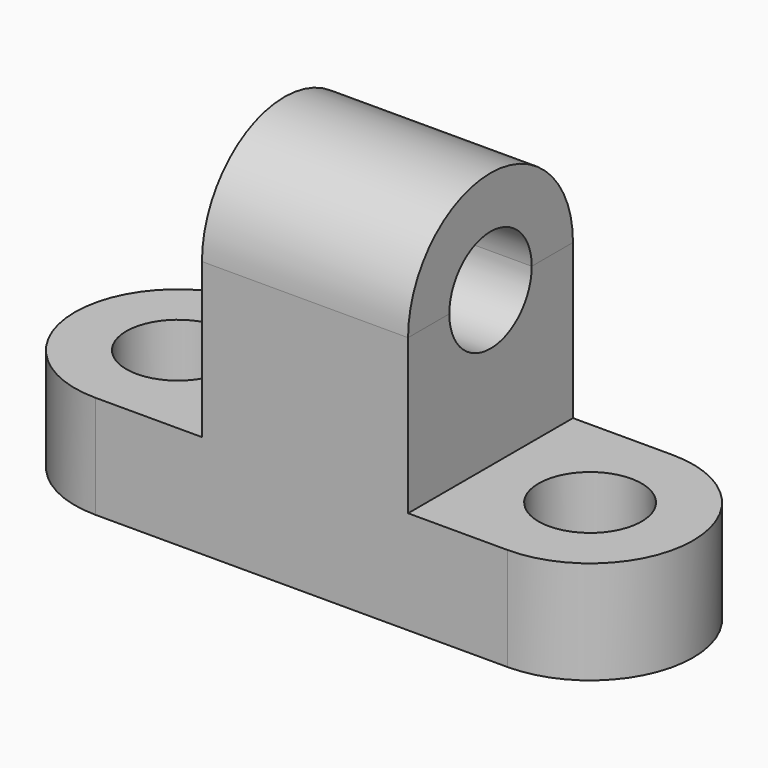
from build123d import *

# Parameters (mm, degrees)
F1_DEPTH = 25.4
F4_DEPTH = 12.7
F6_DEPTH = 25.4
F8_D     = 12.7
F10_D    = 12.7
F12_D    = 12.7
F12_2_D  = 12.7


with BuildPart() as f1:
    # F0 (on Front) → F1 (new body)
    with BuildSketch(Plane.XZ):
        Polygon((-18.914438, 44.604348), (-44.314438, 44.604348), (-44.314438, 25.554348), (-57.441327, 25.554348), (-57.441327, 12.854348), (-6.641327, 12.854348), (-6.641327, 25.554348), (-18.914438, 25.554348), align=None)
    extrude(amount=F1_DEPTH)

    # F3 (on face) + F2 (on face) → F4 (join)
    with BuildSketch(Plane.XY.offset(25.554348)):
        with BuildLine():
            Line((-57.441327, -25.4), (-57.441327, 0))
            ThreePointArc((-57.441327, 0), (-70.141327, -12.7), (-57.441327, -25.4))
        make_face()
    with BuildSketch(Plane.XY.offset(25.554348)):
        with BuildLine():
            Line((-6.641327, 0), (-6.641327, -25.4))
            ThreePointArc((-6.641327, -25.4), (6.058673, -12.7), (-6.641327, 0))
        make_face()
    extrude(amount=-F4_DEPTH)

    # F8 (through all)
    with Locations(Plane.XY.offset(25.554348)):
        with Locations((-57.441327, -12.7)):
            Hole(F8_D / 2)

    # F10 (through all)
    with Locations(Plane.XY.offset(25.554348)):
        with Locations((-6.641327, -12.7)):
            Hole(F10_D / 2)

    # F12 (through all)
    with Locations(Plane.YZ.offset(-18.914438)):
        with Locations((-12.7, 44.604348)):
            Hole(F12_D / 2)


with BuildPart() as f6:
    # F5 (on face) → F6 (new body)
    with BuildSketch(Plane.YZ.offset(-18.914438)):
        with BuildLine():
            Line((-25.4, 44.604348), (0, 44.604348))
            ThreePointArc((0, 44.604348), (-12.7, 57.304348), (-25.4, 44.604348))
        make_face()
    extrude(amount=-F6_DEPTH)

    # F12#2 (through all)
    with Locations(Plane.YZ.offset(-18.914438)):
        with Locations((-12.7, 44.604348)):
            Hole(F12_2_D / 2)


solid = Compound([f1.part, f6.part])
